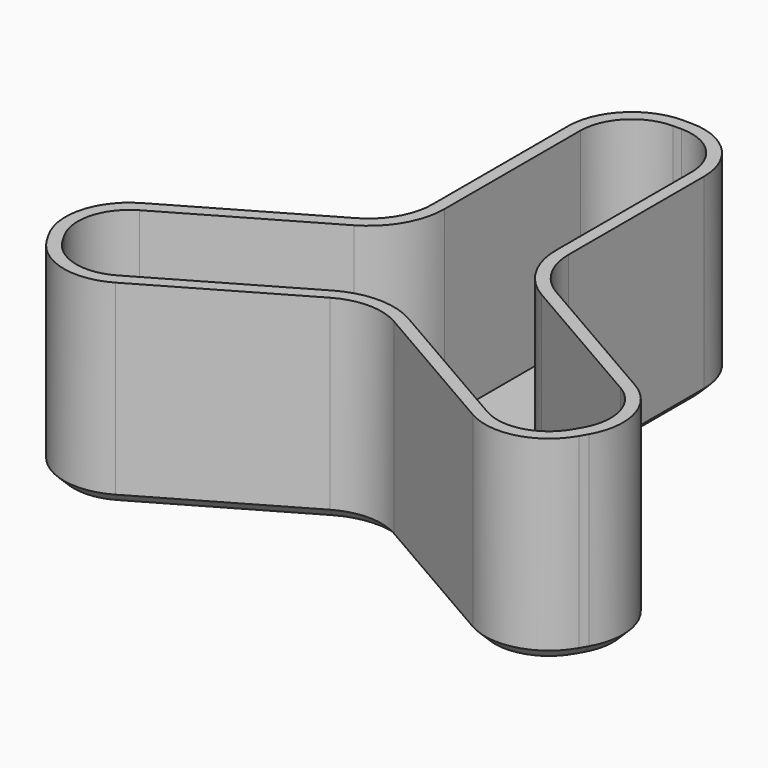
from build123d import *

# Parameters (mm, degrees)
F1_DEPTH = 40
F2_R     = 13
F3_T     = -2.5
F4_SIZE  = 2


with BuildPart() as f1:
    # F0 (on Top) → F1 (new body)
    with BuildSketch(Plane.XY):
        Polygon((-13.856406, 63), (-13.856406, 8), (-61.487804, -19.5), (-47.631397, -43.5), (0, -16), (47.631397, -43.5), (61.487804, -19.5), (13.856406, 8), (13.856406, 63), align=None)
    extrude(amount=F1_DEPTH)

    # F2
    f2_edges = [f1.edges().sort_by_distance(p)[0] for p in [
        (-47.631397, -43.5, 20),
        (-61.487804, -19.5, 20),
        (0, -16, 20),
        (47.631397, -43.5, 20),
        (61.487804, -19.5, 20),
        (13.856406, 8, 20),
        (13.856406, 63, 20),
        (-13.856406, 63, 20),
        (-13.856406, 8, 20),
    ]]
    fillet(f2_edges, radius=F2_R)

    # F3
    f3_openings = [f1.faces().sort_by_distance(p)[0] for p in [
        (0, 0, 40),
    ]]
    offset(amount=F3_T, openings=f3_openings)

    # F4
    f4_edges = [f1.edges().sort_by_distance(p)[0] for p in [
        (-21.436533, -28.376388, 0),
        (-46.237715, -38.298705, 0),
        (0, -18.011107, 0),
        (-54.5596, -31.5, 0),
        (21.436533, -28.376388, 0),
        (-56.286509, -20.893683, 0),
        (46.237715, -38.298705, 0),
        (-35.29294, -4.376388, 0),
        (54.5596, -31.5, 0),
        (-15.598076, 9.005553, 0),
        (56.286509, -20.893683, 0),
        (-13.856406, 32.752777, 0),
        (35.29294, -4.376388, 0),
        (-10.048795, 59.192388, 0),
        (15.598076, 9.005553, 0),
        (0, 63, 0),
        (13.856406, 32.752777, 0),
        (10.048795, 59.192388, 0),
    ]]
    chamfer(f4_edges, length=F4_SIZE)


solid = f1.part
